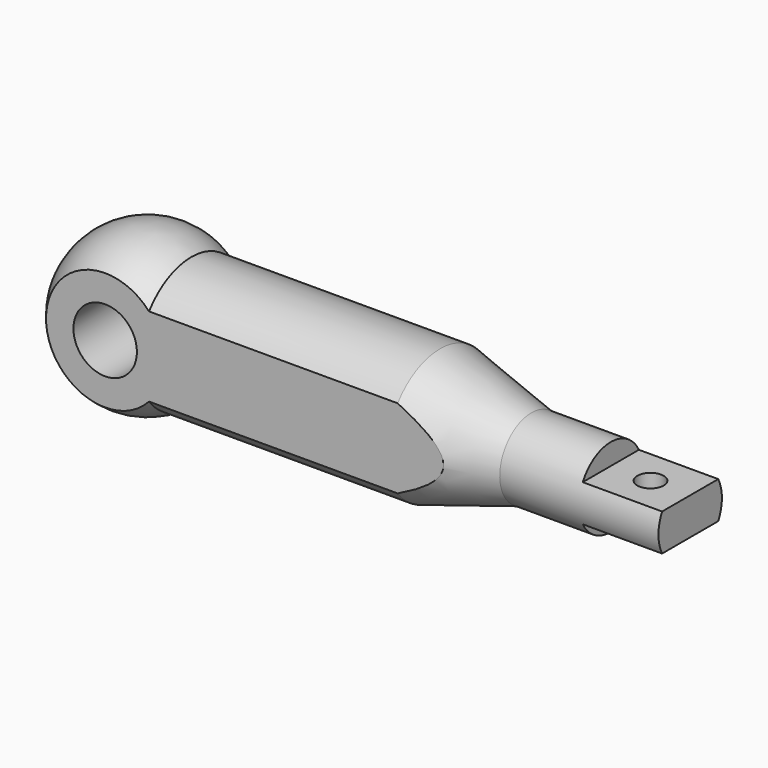
from build123d import *

# Parameters (mm, degrees)
F2_W          = 15
F2_H          = 4
F3_DEPTH      = 15.001
F3_DEPTH_BACK = 15.001
F5_DEPTH      = 117.5841784417
F6_R          = 6
F7_DEPTH      = 20.001
F8_R          = 2.5
F9_DEPTH      = 18.501


with BuildPart() as f1:
    # F0 (on Front) → F1 (revolve)
    with BuildSketch(Plane.XZ):
        with BuildLine():
            ThreePointArc((8.2915619759, 12.5), (-7.0931858273, 13.2169101843), (-15, 0))
            Line((-15, 0), (102.5831784417, 0))
            Line((102.5831784417, 0), (102.5831784417, 7.5))
            Line((102.5831784417, 7.5), (72.5831784417, 7.5))
            Line((72.5831784417, 7.5), (55.2915619759, 12.5))
            Line((55.2915619759, 12.5), (8.2915619759, 12.5))
        make_face()
    revolve(axis=Axis((64.8176119516, 0, 0), (1, 0, 0)))

    # F2 (on Front) → F3 (cut, two sides)
    with BuildSketch(Plane.XZ) as f3_sk:
        with Locations((95.0831784417, 5.5)):
            Rectangle(F2_W, F2_H)
        with Locations((95.0831784417, -5.5)):
            Rectangle(F2_W, F2_H)
    extrude(amount=-F3_DEPTH, mode=Mode.SUBTRACT)
    extrude(f3_sk.sketch, amount=F3_DEPTH_BACK, mode=Mode.SUBTRACT)

    # F4 (on face) → F5 (cut, through all)
    with BuildSketch(Plane.YZ.offset(102.5831784417)):
        with BuildLine():
            Line((-10, -11.1803398875), (-10, 11.1803398875))
            ThreePointArc((-10, 11.1803398875), (-15, 0), (-10, -11.1803398875))
        make_face()
        with BuildLine():
            ThreePointArc((10, -11.1803398875), (15, 0), (10, 11.1803398875))
            Line((10, 11.1803398875), (10, -11.1803398875))
        make_face()
    extrude(amount=-F5_DEPTH, mode=Mode.SUBTRACT)

    # F6 (on face) → F7 (cut, through all)
    with BuildSketch(Plane.XZ.offset(10)):
        Circle(F6_R)
    extrude(amount=-F7_DEPTH, mode=Mode.SUBTRACT)

    # F8 (on face) → F9 (cut, through all)
    with BuildSketch(Plane.XY.offset(3.5)):
        with Locations((95.0831784417, 0)):
            Circle(F8_R)
    extrude(amount=-F9_DEPTH, mode=Mode.SUBTRACT)


solid = f1.part
